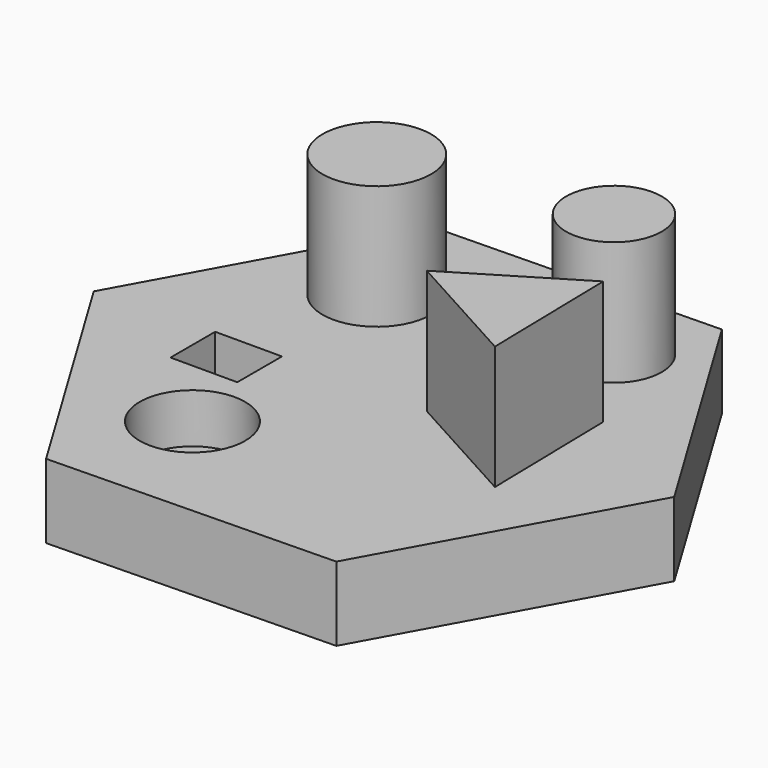
from build123d import *

# Parameters (mm, degrees)
F1_DEPTH = 3.81
F2_R     = 2.786775
F2_R_2   = 2.454424
F3_DEPTH = 6.35
F4_W     = 3.428999
F4_H     = 2.867069
F5_DEPTH = 5.08
F6_R     = 2.706702
F7_DEPTH = 2.54


with BuildPart() as f1:
    # F0 (on Top) → F1 (new body)
    with BuildSketch(Plane.XY):
        Polygon((14.661641, 0.299343), (7.071582, 12.847025), (-7.590059, 12.547683), (-14.661641, -0.299343), (-7.071582, -12.847025), (7.590059, -12.547683), align=None)
    extrude(amount=F1_DEPTH)

    # F2 (on face) → F3 (join)
    with BuildSketch(Plane.XY.offset(3.81)):
        with Locations((-5.619749, 6.562192)):
            Circle(F2_R)
        with Locations((5.048249, 8.448053)):
            Circle(F2_R_2)
        Polygon((8.512636, -3.522729), (8.367075, 3.606768), (2.265531, -0.08404), align=None)
    extrude(amount=F3_DEPTH)

    # F4 (on face) → F5 (cut)
    with BuildSketch(Plane.XY.offset(3.81)):
        with Locations((-6.953249, -1.433534)):
            Rectangle(F4_W, F4_H)
    extrude(amount=-F5_DEPTH, mode=Mode.SUBTRACT)

    # F6 (on face) → F7 (cut)
    with BuildSketch(Plane.XY.offset(3.81)):
        with Locations((-4.522542, -6.642293)):
            Circle(F6_R)
    extrude(amount=-F7_DEPTH, mode=Mode.SUBTRACT)


solid = f1.part
